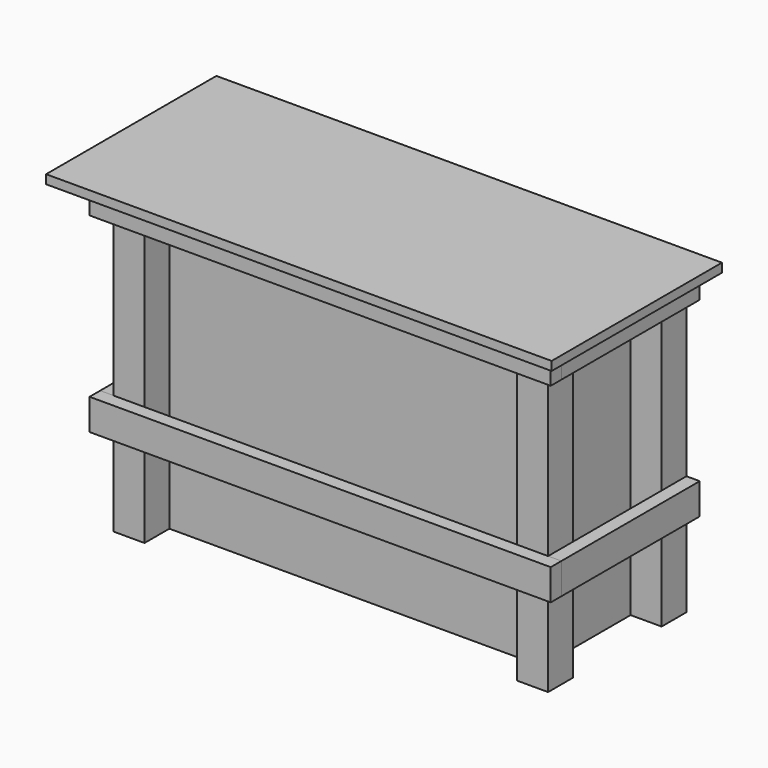
from build123d import *

# Parameters (mm, degrees)
F0_W     = 1066.8
F0_H     = 406.4
F1_DEPTH = 838.2
F2_W     = 88.9
F2_H     = 88.9
F3_DEPTH = 889
F4_W     = 38.1
F4_H     = 88.9
F5_DEPTH = 495.3
F6_W     = 38.1
F6_H     = 88.9
F7_DEPTH = 1320.8
F8_W     = 88.9
F8_H     = 88.9
F9_DEPTH = 25.4


with BuildPart() as f1:
    # F0 (on Top) → F1 (new body)
    with BuildSketch(Plane.XY):
        Rectangle(F0_W, F0_H)
    extrude(amount=F1_DEPTH)


with BuildPart() as f3:
    # F2 (on Top) → F3 (new body)
    with BuildSketch(Plane.XY):
        with Locations((-577.85, 158.75)):
            Rectangle(F2_W, F2_H)
    extrude(amount=F3_DEPTH)


with BuildPart() as f3b:
    # F2 (on Top) → F3, piece 2 (new body)
    with BuildSketch(Plane.XY):
        with Locations((-577.85, -247.65)):
            Rectangle(F2_W, F2_H)
    extrude(amount=F3_DEPTH)


with BuildPart() as f3c:
    # F2 (on Top) → F3, piece 3 (new body)
    with BuildSketch(Plane.XY):
        with Locations((577.85, -247.65)):
            Rectangle(F2_W, F2_H)
    extrude(amount=F3_DEPTH)


with BuildPart() as f3d:
    # F2 (on Top) → F3, piece 4 (new body)
    with BuildSketch(Plane.XY):
        with Locations((577.85, 158.75)):
            Rectangle(F2_W, F2_H)
    extrude(amount=F3_DEPTH)


with BuildPart() as f5:
    # F4 (on face) → F5 (new body, through all)
    with BuildSketch(Plane(origin=(0, 203.2, 0), x_dir=(-1, 0, 0), z_dir=(0, 1, 0))):
        with Locations((-641.35, 844.55)):
            Rectangle(F4_W, F4_H)
    extrude(amount=-F5_DEPTH)


with BuildPart() as f5b:
    # F4 (on face) → F5, piece 2 (new body, through all)
    with BuildSketch(Plane(origin=(0, 203.2, 0), x_dir=(-1, 0, 0), z_dir=(0, 1, 0))):
        with Locations((-641.35, 298.45)):
            Rectangle(F4_W, F4_H)
    extrude(amount=-F5_DEPTH)


with BuildPart() as f5c:
    # F4 (on face) → F5, piece 3 (new body, through all)
    with BuildSketch(Plane(origin=(0, 203.2, 0), x_dir=(-1, 0, 0), z_dir=(0, 1, 0))):
        with Locations((641.35, 298.45)):
            Rectangle(F4_W, F4_H)
    extrude(amount=-F5_DEPTH)


with BuildPart() as f5d:
    # F4 (on face) → F5, piece 4 (new body, through all)
    with BuildSketch(Plane(origin=(0, 203.2, 0), x_dir=(-1, 0, 0), z_dir=(0, 1, 0))):
        with Locations((641.35, 844.55)):
            Rectangle(F4_W, F4_H)
    extrude(amount=-F5_DEPTH)


with BuildPart() as f7:
    # F6 (on face) → F7 (new body, through all)
    with BuildSketch(Plane.YZ.offset(660.4)):
        with Locations((-311.15, 844.55)):
            Rectangle(F6_W, F6_H)
    extrude(amount=-F7_DEPTH)


with BuildPart() as f7b:
    # F6 (on face) → F7, piece 2 (new body, through all)
    with BuildSketch(Plane.YZ.offset(660.4)):
        with Locations((-311.15, 298.45)):
            Rectangle(F6_W, F6_H)
    extrude(amount=-F7_DEPTH)


with BuildPart() as f9:
    # F8 (on face) → F9 (new body)
    with BuildSketch(Plane.XY.offset(889)):
        Polygon((-622.3, 203.2), (-723.9, 203.2), (-723.9, -406.4), (723.9, -406.4), (723.9, 203.2), (-533.4, 203.2), (-533.4, 114.3), (-622.3, 114.3), align=None)
        with Locations((-577.85, 158.75)):
            Rectangle(F8_W, F8_H)
    extrude(amount=F9_DEPTH)


solid = Compound([f1.part, f3.part, f3b.part, f3c.part, f3d.part, f5.part, f5b.part, f5c.part, f5d.part, f7.part, f7b.part, f9.part])
